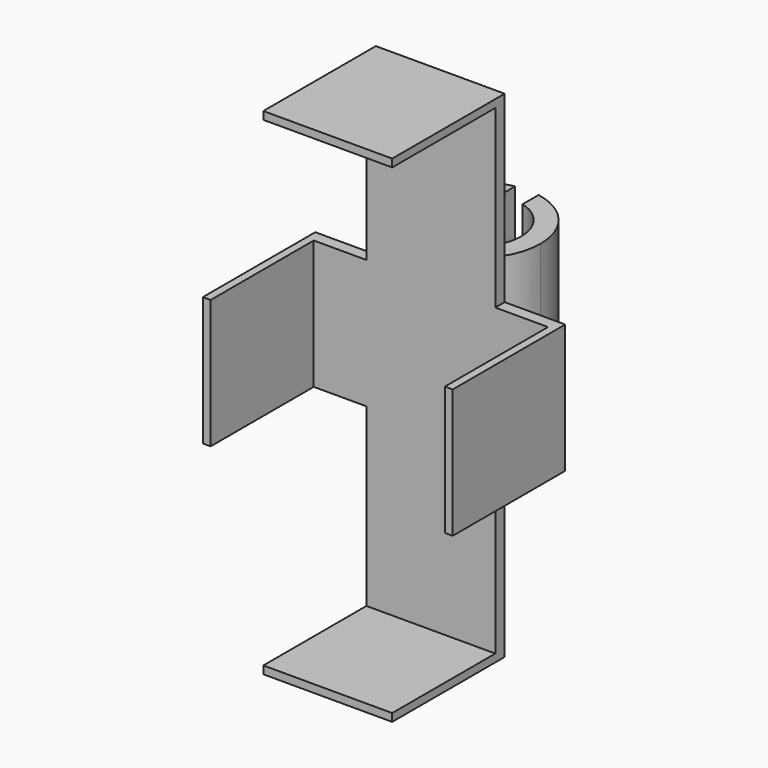
from build123d import *

# Parameters (mm, degrees)
F0_W     = 33
F0_H     = 47
F0_W_2   = 15.5
F0_H_2   = 33
F1_DEPTH = 3
F2_W     = 33
F2_H     = 2
F2_W_2   = 2
F2_H_2   = 33
F3_DEPTH = 33
F5_DEPTH = 25


with BuildPart() as f1:
    # F0 (on Front) → F1 (new body)
    with BuildSketch(Plane.XZ):
        with Locations((0, 40)):
            Rectangle(F0_W, F0_H)
        with Locations((24.25, 0)):
            Rectangle(F0_W_2, F0_H_2)
        Rectangle(F0_W, F0_H_2)
        with Locations((-24.25, 0)):
            Rectangle(F0_W_2, F0_H_2)
        with Locations((0, -40)):
            Rectangle(F0_W, F0_H)
    extrude(amount=-F1_DEPTH)

    # F2 (on face) → F3 (join)
    with BuildSketch(Plane.XZ):
        with Locations((0, 62.5)):
            Rectangle(F2_W, F2_H)
        with Locations((-31, 0)):
            Rectangle(F2_W_2, F2_H_2)
        with Locations((0, -62.5)):
            Rectangle(F2_W, F2_H)
        with Locations((31, 0)):
            Rectangle(F2_W_2, F2_H_2)
    extrude(amount=F3_DEPTH)

    # F4 (on Top) → F5 (join)
    with BuildSketch(Plane.XY):
        with BuildLine():
            Line((-11.8321595662, 3), (0, 3))
            ThreePointArc((0, 3), (-11.4000157684, 12.9868441982), (-3, 25.6018016556))
            Line((-3, 25.6018016556), (-3, 30.7249807396))
            ThreePointArc((-3, 30.7249807396), (-15.7215418646, 19.5083052421), (-11.8321595662, 3))
        make_face()
        with BuildLine():
            ThreePointArc((3, 25.6018016556), (9.1309911839, 21.4910657271), (11.5, 14.5))
            ThreePointArc((11.5, 14.5), (8.1317279836, 6.3682720164), (0, 3))
            Line((0, 3), (11.8321595662, 3))
            ThreePointArc((11.8321595662, 3), (15.2885681612, 8.294382901), (16.5, 14.5))
            ThreePointArc((16.5, 14.5), (12.683650894, 25.0534354596), (3, 30.7249807396))
            Line((3, 30.7249807396), (3, 25.6018016556))
        make_face()
    extrude(amount=F5_DEPTH)


solid = f1.part
